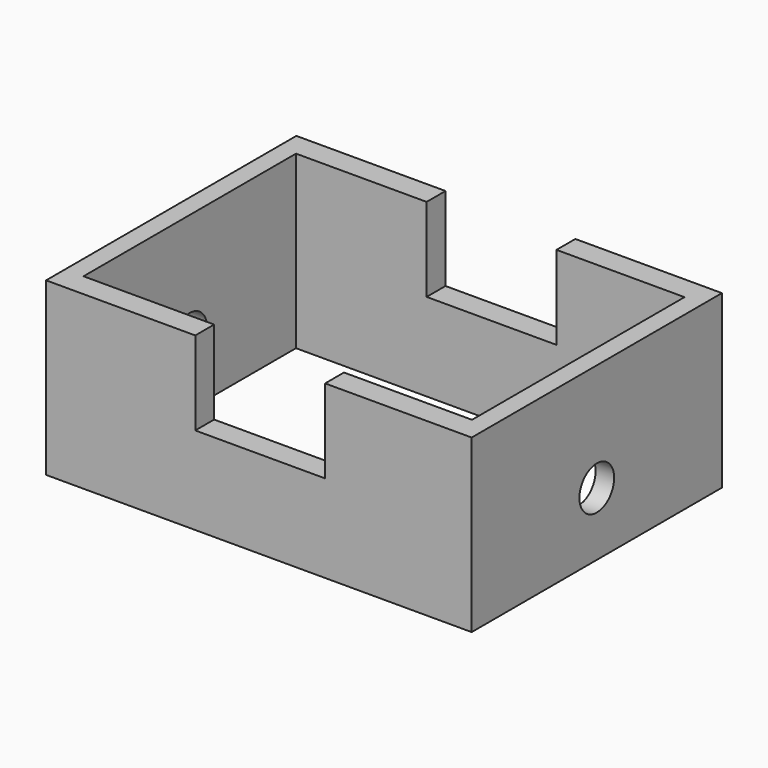
from build123d import *

# Parameters (mm, degrees)
F0_W     = 248.435066
F0_H     = 182.613314
F0_W_2   = 226.806744
F0_H_2   = 155.059486
F1_DEPTH = 100
F2_W     = 75.79172
F2_H     = 48.828578
F3_DEPTH = 182.614313
F4_R     = 12.665066
F5_DEPTH = 248.436065


with BuildPart() as f1:
    # F0 (on Top) → F1 (new body)
    with BuildSketch(Plane.XY):
        Rectangle(F0_W, F0_H)
        Rectangle(F0_W_2, F0_H_2, mode=Mode.SUBTRACT)
    extrude(amount=F1_DEPTH)

    # F2 (on face) → F3 (cut, through all)
    with BuildSketch(Plane.XZ.offset(91.306657)):
        with Locations((0.759939, 75.585711)):
            Rectangle(F2_W, F2_H)
    extrude(amount=-F3_DEPTH, mode=Mode.SUBTRACT)

    # F4 (on face) → F5 (cut, through all)
    with BuildSketch(Plane.YZ.offset(124.217533)):
        with Locations((0, 36.991738)):
            Circle(F4_R)
    extrude(amount=-F5_DEPTH, mode=Mode.SUBTRACT)


solid = f1.part
